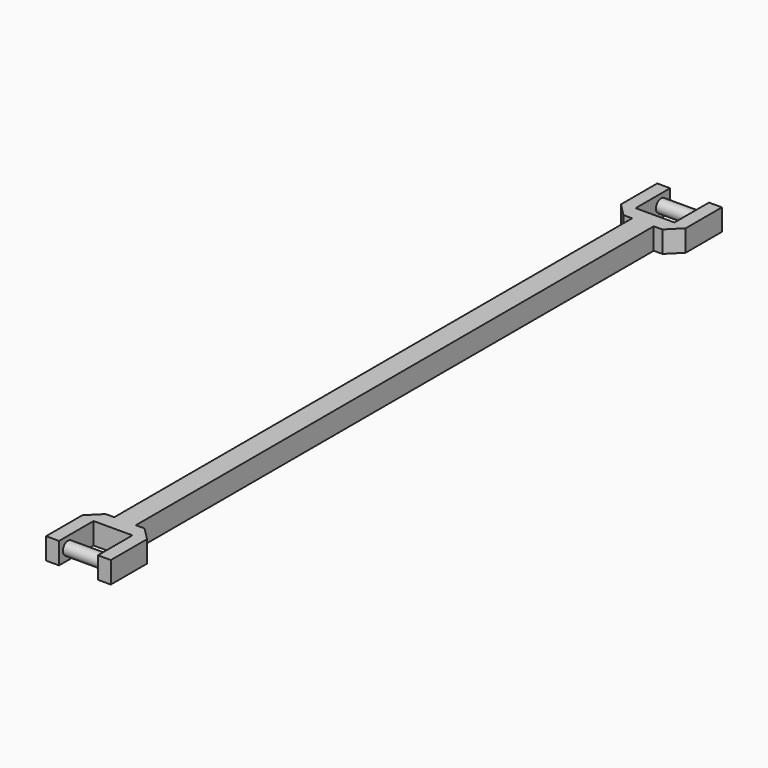
from build123d import *

# Parameters (mm, degrees)
F0_W     = 5
F0_H     = 150
F1_DEPTH = 5
F2_R     = 1.5
F3_DEPTH = 9
F5_SIZE  = 3


with BuildPart() as f1:
    # F0 (on Top) → F1 (new body)
    with BuildSketch(Plane.XY):
        Rectangle(F0_W, F0_H)
        Polygon((-2.5, 75), (2.5, 75), (7.5, 75), (7.5, 88.5), (4.5, 88.5), (4.5, 78.5), (0, 78.5), (-4.5, 78.5), (-4.5, 88.5), (-7.5, 88.5), (-7.5, 75), align=None)
    extrude(amount=F1_DEPTH)

    # F2 (on face) → F3 (join, through all)
    with BuildSketch(Plane(origin=(4.5, 0, 0), x_dir=(0, -1, 0), z_dir=(-1, 0, 0))):
        with Locations((-85.8986780643, 2.5)):
            Circle(F2_R)
    extrude(amount=F3_DEPTH)

    # F4: F1 across plane


with BuildPart() as f1_1:
    add(f1.part)
    add(f1.part.mirror(Plane.XZ))

    # F5
    f5_edges = [f1_1.edges().sort_by_distance(p)[0] for p in [
        (-7.5, 75, 2.5),
        (7.5, 75, 2.5),
        (-7.5, -75, 2.5),
        (7.5, -75, 2.5),
    ]]
    chamfer(f5_edges, length=F5_SIZE)


solid = f1_1.part
